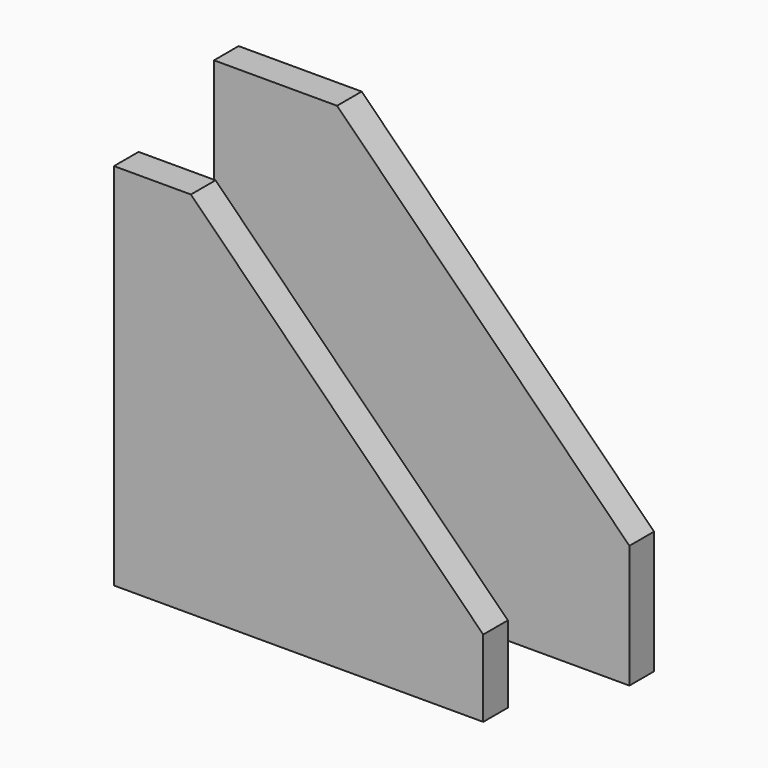
from build123d import *

# Parameters (mm, degrees)
F1_DEPTH = 2
F4_DEPTH = 2


with BuildPart() as f1:
    # F0 (on Front) → F1 (new body)
    with BuildSketch(Plane.XZ):
        Polygon((-13.5, -13.5), (13.5, -13.5), (13.5, -5.5), (-5.5, 13.5), (-13.5, 13.5), align=None)
    extrude(amount=F1_DEPTH)


with BuildPart() as f4:
    # F3 (on offset) → F4 (new body)
    with BuildSketch(Plane.XZ.offset(10)):
        Polygon((-12, -12), (12, -12), (12, -7), (-7, 12), (-12, 12), align=None)
    extrude(amount=F4_DEPTH)


solid = Compound([f1.part, f4.part])
